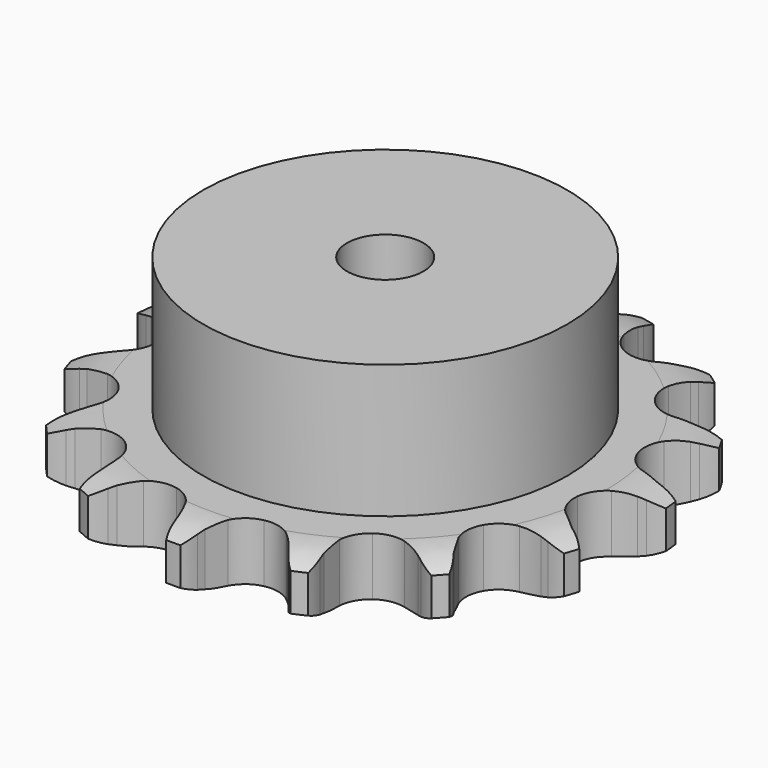
from build123d import *

# Parameters (mm, degrees)
PAD_DEPTH         = 9.1
SKETCH001_R       = 28.5
PAD001_DEPTH      = 30
SKETCH002_R       = 6
POCKET_DEPTH      = 0.001
POCKET_DEPTH_BACK = -30.001


with BuildPart() as part:
    # Sprocket → Pad (new body)
    with BuildSketch(Plane.XY):
        with BuildLine():
            ThreePointArc((-8.947326, 42.093861), (-7.364536, 40.607501), (-6.211077, 38.767928))
            Line((-6.211077, 38.767928), (-5.737395, 37.739646))
            ThreePointArc((-5.737395, 37.739646), (-4.954564, 36.285769), (-3.99725, 34.940357))
            ThreePointArc((-3.99725, 34.940357), (-2.214334, 33.534819), (0, 33.033766))
            ThreePointArc((0, 33.033766), (2.214334, 33.534819), (3.99725, 34.940357))
            ThreePointArc((3.99725, 34.940357), (4.954564, 36.285769), (5.737395, 37.739646))
            Line((5.737395, 37.739646), (6.211077, 38.767928))
            ThreePointArc((6.211077, 38.767928), (7.364536, 40.607501), (8.947326, 42.093861))
            ThreePointArc((8.947326, 42.093861), (9.78872, 40.092224), (10.094235, 37.942538))
            Line((10.094235, 37.942538), (10.108725, 36.810491))
            ThreePointArc((10.108725, 36.810491), (10.232533, 35.163902), (10.559854, 33.545433))
            ThreePointArc((10.559854, 33.545433), (11.616945, 31.536232), (13.436043, 30.177847))
            ThreePointArc((13.436043, 30.177847), (15.662734, 29.734931), (17.863193, 30.293776))
            Line((17.863193, 30.293776), (20.591468, 32.143273))
            ThreePointArc((20.591468, 32.143273), (21.008987, 32.525711), (21.442439, 32.889992))
            ThreePointArc((21.442439, 32.889992), (23.244397, 34.101371), (25.294905, 34.81545))
            ThreePointArc((25.294905, 34.81545), (25.249418, 32.644638), (24.654163, 30.556537))
            Line((24.654163, 30.556537), (24.206956, 29.516468))
            ThreePointArc((24.206956, 29.516468), (23.650332, 27.961877), (23.291063, 26.350198))
            ThreePointArc((23.291063, 26.350198), (23.439549, 24.084744), (24.548873, 22.103904))
            ThreePointArc((24.548873, 22.103904), (26.402906, 20.793603), (28.640428, 20.409126))
            Line((28.640428, 20.409126), (31.88509, 20.989036))
            ThreePointArc((31.88509, 20.989036), (32.422063, 21.16859), (32.966207, 21.325077))
            ThreePointArc((32.966207, 21.325077), (35.10509, 21.698805), (37.268765, 21.517132))
            ThreePointArc((37.268765, 21.517132), (36.344261, 19.552498), (34.951162, 17.887034))
            Line((34.951162, 17.887034), (34.119583, 17.118779))
            ThreePointArc((34.119583, 17.118779), (32.978773, 15.924989), (31.995036, 14.598775))
            ThreePointArc((31.995036, 14.598775), (31.209241, 12.468786), (31.416979, 10.207995))
            ThreePointArc((31.416979, 10.207995), (32.577775, 8.256872), (34.465472, 6.995553))
            Line((34.465472, 6.995553), (37.665489, 6.205605))
            ThreePointArc((37.665489, 6.205605), (38.22907, 6.151228), (38.789819, 6.072863))
            ThreePointArc((38.789819, 6.072863), (40.895795, 5.544318), (42.798517, 4.498305))
            ThreePointArc((42.798517, 4.498305), (41.154852, 3.079553), (39.204788, 2.124701))
            Line((39.204788, 2.124701), (38.132625, 1.761098))
            ThreePointArc((38.132625, 1.761098), (36.604885, 1.134526), (35.166776, 0.323091))
            ThreePointArc((35.166776, 0.323091), (33.582573, -1.30314), (32.852804, -3.452969))
            ThreePointArc((32.852804, -3.452969), (33.119651, -5.707547), (34.331124, -7.627615))
            Line((34.331124, -7.627615), (36.933183, -9.650833))
            ThreePointArc((36.933183, -9.650833), (37.425923, -9.929737), (37.906319, -10.229404))
            ThreePointArc((37.906319, -10.229404), (39.615245, -11.568832), (40.928016, -13.298319))
            ThreePointArc((40.928016, -13.298319), (38.849395, -13.925875), (36.679549, -14.005013))
            Line((36.679549, -14.005013), (35.55219, -13.901093))
            ThreePointArc((35.55219, -13.901093), (33.90168, -13.852107), (32.257862, -14.008458))
            ThreePointArc((32.257862, -14.008458), (30.149172, -14.84974), (28.608081, -16.516883))
            ThreePointArc((28.608081, -16.516883), (27.934838, -18.685079), (28.260612, -20.931899))
            Line((28.260612, -20.931899), (29.814794, -23.838553))
            ThreePointArc((29.814794, -23.838553), (30.151494, -24.293761), (30.468472, -24.762915))
            ThreePointArc((30.468472, -24.762915), (31.484859, -26.681626), (31.98069, -28.795543))
            ThreePointArc((31.98069, -28.795543), (29.826525, -28.523393), (27.812084, -27.713133))
            Line((27.812084, -27.713133), (26.824458, -27.159658))
            ThreePointArc((26.824458, -27.159658), (25.336566, -26.443585), (23.77127, -25.917818))
            ThreePointArc((23.77127, -25.917818), (21.502706, -25.828686), (19.416761, -26.724878))
            ThreePointArc((19.416761, -26.724878), (17.919838, -28.431791), (17.303583, -30.616867))
            Line((17.303583, -30.616867), (17.541157, -33.904371))
            ThreePointArc((17.541157, -33.904371), (17.663598, -34.457172), (17.762349, -35.014692))
            ThreePointArc((17.762349, -35.014692), (17.910455, -37.180924), (17.503612, -39.313755))
            ThreePointArc((17.503612, -39.313755), (15.646377, -38.188956), (14.135656, -36.6294))
            Line((14.135656, -36.6294), (13.458533, -35.722073))
            ThreePointArc((13.458533, -35.722073), (12.39053, -34.462726), (11.174409, -33.345751))
            ThreePointArc((11.174409, -33.345751), (9.138226, -32.341617), (6.868106, -32.311899))
            ThreePointArc((6.868106, -32.311899), (4.806336, -33.262389), (3.354608, -35.007901))
            Line((3.354608, -35.007901), (2.234494, -38.107816))
            ThreePointArc((2.234494, -38.107816), (2.121505, -38.662626), (1.984955, -39.212112))
            ThreePointArc((1.984955, -39.212112), (1.239171, -41.251302), (0, -43.034263))
            ThreePointArc((0, -43.034263), (-1.239171, -41.251302), (-1.984955, -39.212112))
            Line((-1.984955, -39.212112), (-2.234494, -38.107816))
            ThreePointArc((-2.234494, -38.107816), (-2.697941, -36.52295), (-3.354608, -35.007901))
            ThreePointArc((-3.354608, -35.007901), (-4.806336, -33.262389), (-6.868106, -32.311899))
            ThreePointArc((-6.868106, -32.311899), (-9.138226, -32.341617), (-11.174409, -33.345751))
            Line((-11.174409, -33.345751), (-13.458533, -35.722073))
            ThreePointArc((-13.458533, -35.722073), (-13.787415, -36.18296), (-14.135656, -36.6294))
            ThreePointArc((-14.135656, -36.6294), (-15.646377, -38.188956), (-17.503612, -39.313755))
            ThreePointArc((-17.503612, -39.313755), (-17.910455, -37.180924), (-17.762349, -35.014692))
            Line((-17.762349, -35.014692), (-17.541157, -33.904371))
            ThreePointArc((-17.541157, -33.904371), (-17.319914, -32.268023), (-17.303583, -30.616867))
            ThreePointArc((-17.303583, -30.616867), (-17.919838, -28.431791), (-19.416761, -26.724878))
            ThreePointArc((-19.416761, -26.724878), (-21.502706, -25.828686), (-23.77127, -25.917818))
            Line((-23.77127, -25.917818), (-26.824458, -27.159658))
            ThreePointArc((-26.824458, -27.159658), (-27.312366, -27.446932), (-27.812084, -27.713133))
            ThreePointArc((-27.812084, -27.713133), (-29.826525, -28.523393), (-31.98069, -28.795543))
            ThreePointArc((-31.98069, -28.795543), (-31.484859, -26.681626), (-30.468472, -24.762915))
            Line((-30.468472, -24.762915), (-29.814794, -23.838553))
            ThreePointArc((-29.814794, -23.838553), (-28.947116, -22.433663), (-28.260612, -20.931899))
            ThreePointArc((-28.260612, -20.931899), (-27.934838, -18.685079), (-28.608081, -16.516883))
            ThreePointArc((-28.608081, -16.516883), (-30.149172, -14.84974), (-32.257862, -14.008458))
            Line((-32.257862, -14.008458), (-35.55219, -13.901093))
            ThreePointArc((-35.55219, -13.901093), (-36.114761, -13.96508), (-36.679549, -14.005013))
            ThreePointArc((-36.679549, -14.005013), (-38.849395, -13.925875), (-40.928016, -13.298319))
            ThreePointArc((-40.928016, -13.298319), (-39.615245, -11.568832), (-37.906319, -10.229404))
            Line((-37.906319, -10.229404), (-36.933183, -9.650833))
            ThreePointArc((-36.933183, -9.650833), (-35.569099, -8.720318), (-34.331124, -7.627615))
            ThreePointArc((-34.331124, -7.627615), (-33.119651, -5.707547), (-32.852804, -3.452969))
            ThreePointArc((-32.852804, -3.452969), (-33.582573, -1.30314), (-35.166776, 0.323091))
            Line((-35.166776, 0.323091), (-38.132625, 1.761098))
            ThreePointArc((-38.132625, 1.761098), (-38.672586, 1.931461), (-39.204788, 2.124701))
            ThreePointArc((-39.204788, 2.124701), (-41.154852, 3.079553), (-42.798517, 4.498305))
            ThreePointArc((-42.798517, 4.498305), (-40.895795, 5.544318), (-38.789819, 6.072863))
            Line((-38.789819, 6.072863), (-37.665489, 6.205605))
            ThreePointArc((-37.665489, 6.205605), (-36.040862, 6.500849), (-34.465472, 6.995553))
            ThreePointArc((-34.465472, 6.995553), (-32.577775, 8.256872), (-31.416979, 10.207995))
            ThreePointArc((-31.416979, 10.207995), (-31.209241, 12.468786), (-31.995036, 14.598775))
            Line((-31.995036, 14.598775), (-34.119583, 17.118779))
            ThreePointArc((-34.119583, 17.118779), (-34.543569, 17.494035), (-34.951162, 17.887034))
            ThreePointArc((-34.951162, 17.887034), (-36.344261, 19.552498), (-37.268765, 21.517132))
            ThreePointArc((-37.268765, 21.517132), (-35.10509, 21.698805), (-32.966207, 21.325077))
            Line((-32.966207, 21.325077), (-31.88509, 20.989036))
            ThreePointArc((-31.88509, 20.989036), (-30.280832, 20.597961), (-28.640428, 20.409126))
            ThreePointArc((-28.640428, 20.409126), (-26.402906, 20.793603), (-24.548873, 22.103904))
            ThreePointArc((-24.548873, 22.103904), (-23.439549, 24.084744), (-23.291063, 26.350198))
            Line((-23.291063, 26.350198), (-24.206956, 29.516468))
            ThreePointArc((-24.206956, 29.516468), (-24.441655, 30.031732), (-24.654163, 30.556537))
            ThreePointArc((-24.654163, 30.556537), (-25.249418, 32.644638), (-25.294905, 34.81545))
            ThreePointArc((-25.294905, 34.81545), (-23.244397, 34.101371), (-21.442439, 32.889992))
            Line((-21.442439, 32.889992), (-20.591468, 32.143273))
            ThreePointArc((-20.591468, 32.143273), (-19.284971, 31.133497), (-17.863193, 30.293776))
            ThreePointArc((-17.863193, 30.293776), (-15.662734, 29.734931), (-13.436043, 30.177847))
            ThreePointArc((-13.436043, 30.177847), (-11.616945, 31.536232), (-10.559854, 33.545433))
            Line((-10.559854, 33.545433), (-10.108725, 36.810491))
            ThreePointArc((-10.108725, 36.810491), (-10.113557, 37.376669), (-10.094235, 37.942538))
            ThreePointArc((-10.094235, 37.942538), (-9.78872, 40.092224), (-8.947326, 42.093861))
        make_face()
    extrude(amount=PAD_DEPTH)

    # Sketch → Groove (revolve, cut)
    with BuildSketch(Plane.XZ):
        with BuildLine():
            Line((34.525762, 0), (41.5, 0))
            Line((48.474238, 0), (41.5, 0))
            Line((48.474238, 9.1), (48.474238, 0))
            Line((41.5, 9.1), (48.474238, 9.1))
            Line((34.525762, 9.1), (41.5, 9.1))
            ThreePointArc((41.5, 7.5), (38.10347, 8.694871), (34.525762, 9.1))
            Line((41.5, 1.6), (41.5, 7.5))
            ThreePointArc((34.525762, 0), (38.10347, 0.405129), (41.5, 1.6))
        make_face()
    revolve(axis=Axis((0, 0, 0), (0, 0, 1)), mode=Mode.SUBTRACT)

    # Sketch001 → Pad001 (join)
    with BuildSketch(Plane.XY):
        Circle(SKETCH001_R)
    extrude(amount=PAD001_DEPTH)

    # Sketch002 → Pocket (cut, two sides)
    with BuildSketch(Plane.XY) as pocket_sk:
        Circle(SKETCH002_R)
    extrude(amount=-POCKET_DEPTH, mode=Mode.SUBTRACT)
    extrude(pocket_sk.sketch, amount=-POCKET_DEPTH_BACK, mode=Mode.SUBTRACT)


solid = part.part
